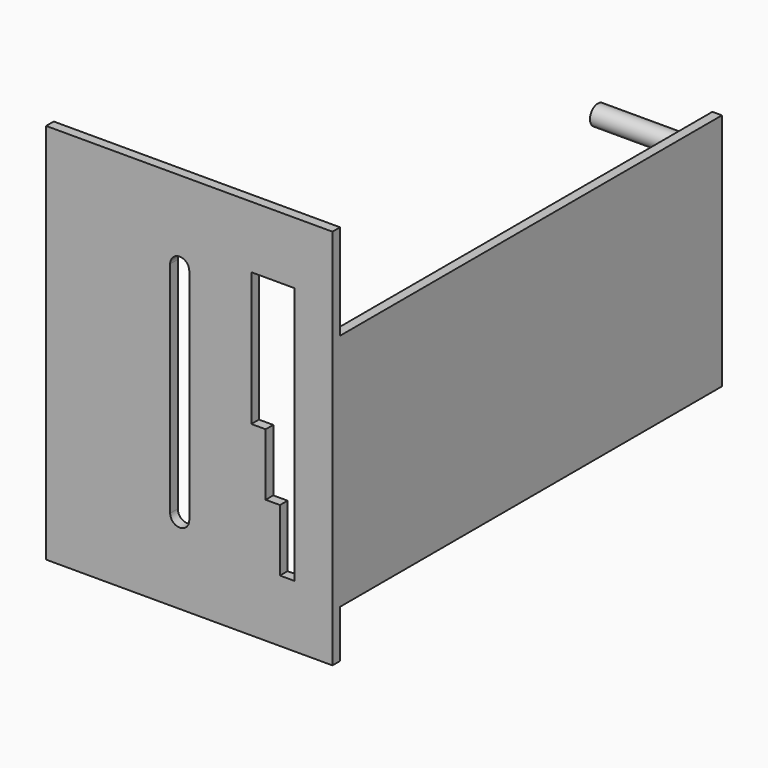
from build123d import *

# Parameters (mm, degrees)
F0_W     = 2
F0_H     = 50
F1_DEPTH = 2
F2_DEPTH = 100
F3_R     = 4
F3_R_2   = 2
F4_DEPTH = 10
F3_R_3   = 2.064533
F5_DEPTH = 20


with BuildPart() as f1:
    # F0 (on Front) → F1 (new body)
    with BuildSketch(Plane.XZ):
        Polygon((0, 80), (0, 0), (60, 0), (60, 10), (58, 10), (58, 60), (60, 60), (60, 80), align=None)
        with BuildLine():
            Line((26, 17), (26, 63))
            ThreePointArc((26, 63), (28, 65), (30, 63))
            Line((30, 63), (30, 17))
            ThreePointArc((30, 17), (28, 15), (26, 17))
        make_face(mode=Mode.SUBTRACT)
        Polygon((43, 67), (52, 67), (52, 13), (49, 13), (49, 26), (46, 26), (46, 39), (43, 39), align=None, mode=Mode.SUBTRACT)
        Polygon((0, 80), (0, 0), (60, 0), (60, 10), (58, 10), (58, 60), (60, 60), (60, 80), align=None)
        with BuildLine():
            Line((26, 17), (26, 63))
            ThreePointArc((26, 63), (28, 65), (30, 63))
            Line((30, 63), (30, 17))
            ThreePointArc((30, 17), (28, 15), (26, 17))
        make_face(mode=Mode.SUBTRACT)
        Polygon((43, 67), (52, 67), (52, 13), (49, 13), (49, 26), (46, 26), (46, 39), (43, 39), align=None, mode=Mode.SUBTRACT)
        with Locations((59, 35)):
            Rectangle(F0_W, F0_H)
    extrude(amount=F1_DEPTH)

    # F0 (on Front) → F2 (join)
    with BuildSketch(Plane.XZ):
        with Locations((59, 35)):
            Rectangle(F0_W, F0_H)
    extrude(amount=-F2_DEPTH)

    # F3 (on face) → F4 (join)
    with BuildSketch(Plane(origin=(58, 0, 0), x_dir=(0, -1, 0), z_dir=(-1, 0, 0))):
        with Locations((-50, 35)):
            Circle(F3_R)
        with Locations((-89, 35)):
            Circle(F3_R_2)
    extrude(amount=F4_DEPTH)

    # F3 (on face) → F5 (join)
    with BuildSketch(Plane(origin=(58, 0, 0), x_dir=(0, -1, 0), z_dir=(-1, 0, 0))):
        with Locations((-95, 55)):
            Circle(F3_R_3)
    extrude(amount=F5_DEPTH)


solid = f1.part
